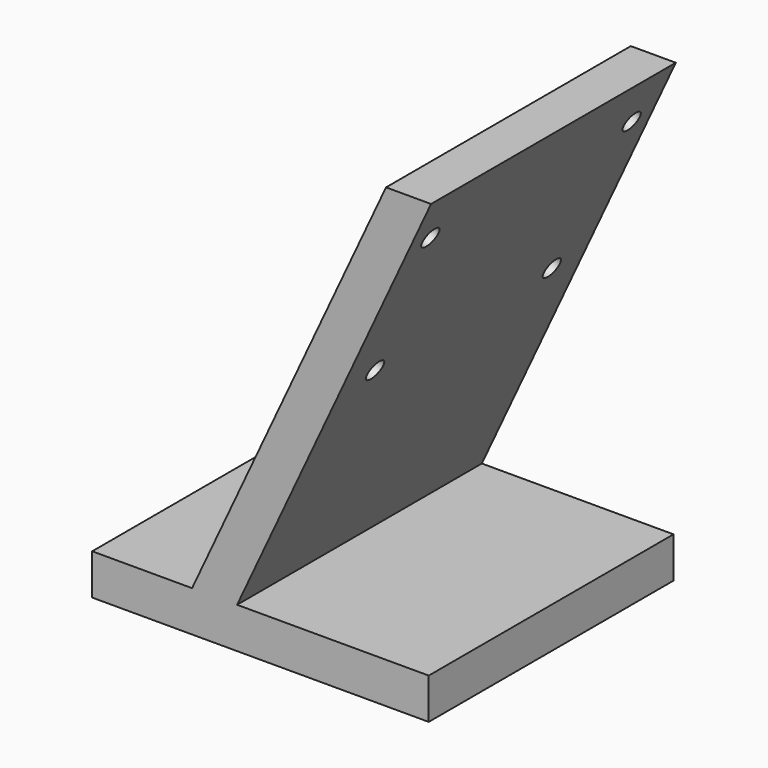
from build123d import *

# Parameters (mm, degrees)
F1_DEPTH = 90
F2_R     = 3
F3_DEPTH = 68.7804190514
F4_R     = 3
F5_DEPTH = 68.7804190514


with BuildPart() as f1:
    # F0 (on Front) → F1 (new body)
    with BuildSketch(Plane.XZ):
        Polygon((-6.6202675138, 0), (0, 0), (57.053465335, 122.3515512499), (50.4331978212, 122.3515512499), align=None)
        Polygon((57.053465335, 122.3515512499), (0, 0), (6.6202675138, 0), (63.6737328488, 122.3515512499), align=None)
        Polygon((6.6202675138, 0), (0, 0), (0, -12), (63, -12), (63, 0), align=None)
        Polygon((0, -12), (0, 0), (-6.6202675138, 0), (-36, 0), (-36, -12), align=None)
    extrude(amount=F1_DEPTH)

    # F2 (on face) → F3 (cut, through all)
    with BuildSketch(Plane(origin=(-5.4378467222, 0, 2.5357095704), x_dir=(0, -1, 0), z_dir=(-0.906307787, 0, 0.4226182617))):
        with Locations((8, 122.2021540511)):
            Circle(F2_R)
        with Locations((82, 122.2021540511)):
            Circle(F2_R)
    extrude(amount=-F3_DEPTH, mode=Mode.SUBTRACT)

    # F4 (on face) → F5 (cut, through all)
    with BuildSketch(Plane(origin=(-5.4378467222, 0, 2.5357095704), x_dir=(0, -1, 0), z_dir=(-0.906307787, 0, 0.4226182617))):
        with Locations((12.5, 75.2021540511)):
            Circle(F4_R)
        with Locations((77.5, 75.2021540511)):
            Circle(F4_R)
    extrude(amount=-F5_DEPTH, mode=Mode.SUBTRACT)


solid = f1.part
